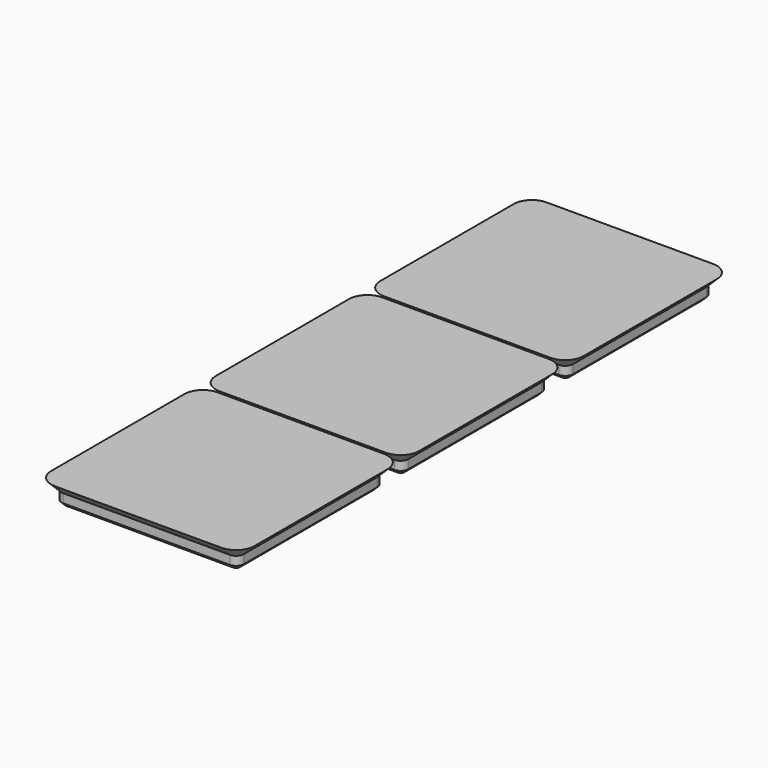
from build123d import *

# Parameters (mm, degrees)
PAD001_DEPTH           = 4.75
LINEARPATTERN003_COUNT = 3
LINEARPATTERN003_PITCH = 42


with BuildPart() as part:
    # AdditivePipe: sweep along a path in Sketch004
    with BuildLine(Plane.XY) as additivepipe_path:
        Line((-17, -20.75), (17, -20.75))
        ThreePointArc((17, -20.75), (19.65165, -19.65165), (20.75, -17))
        Line((20.75, -17), (20.75, 17))
        ThreePointArc((20.75, 17), (19.65165, 19.65165), (17, 20.75))
        Line((17, 20.75), (-17, 20.75))
        ThreePointArc((-17, 20.75), (-19.65165, 19.65165), (-20.75, 17))
        Line((-20.75, 17), (-20.75, -17))
        ThreePointArc((-20.75, -17), (-19.65165, -19.65165), (-17, -20.75))
    # Sketch005 → AdditivePipe (sweep)
    with BuildSketch(Plane.XZ):
        Polygon((20.75, 4.75), (18.6, 2.6), (18.6, 0.8), (17.8, 0), (17.8, 4.75), align=None)
    additivepipe = sweep(path=additivepipe_path.line)

    # Sketch006 → Pad001 (new body)
    with BuildSketch(Plane.XY):
        with BuildLine():
            Line((-17, -17.8), (17, -17.8))
            ThreePointArc((17, -17.8), (17.565685, -17.565685), (17.8, -17))
            Line((17.8, -17), (17.8, 17))
            ThreePointArc((17.8, 17), (17.565685, 17.565685), (17, 17.8))
            Line((17, 17.8), (-17, 17.8))
            ThreePointArc((-17, 17.8), (-17.565685, 17.565685), (-17.8, 17))
            Line((-17.8, 17), (-17.8, -17))
            ThreePointArc((-17.8, -17), (-17.565685, -17.565685), (-17, -17.8))
        make_face()
    pad001 = extrude(amount=PAD001_DEPTH)

    # LinearPattern003: AdditivePipe, Pad001 ×3
    with Locations(*[(0, i * LINEARPATTERN003_PITCH, 0) for i in range(1, LINEARPATTERN003_COUNT)]):
        add(additivepipe)
        add(pad001)


solid = part.part
